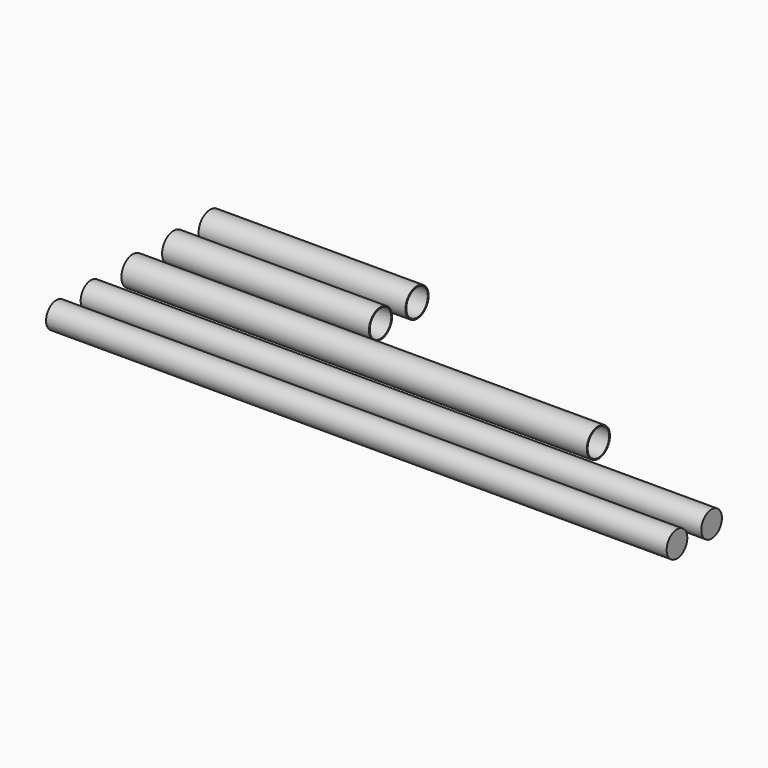
from build123d import *

# Parameters (mm, degrees)
F0_R        = 3.556
F0_R_2      = 3.302
F0_R_3      = 3.175
F1_DEPTH    = 152.4
F1_FACE_R   = 3.556
F1_FACE_R_2 = 3.302
F2_DEPTH    = 101.6
F3_DEPTH    = 101.6
F4_DEPTH    = 38.1


with BuildPart() as f1:
    # F0 (on Right) → F1 (new body)
    with BuildSketch(Plane.YZ):
        Circle(F0_R)
        Circle(F0_R_2, mode=Mode.SUBTRACT)
        with Locations((12.497241, 0)):
            Circle(F0_R)
        with Locations((12.497241, 0)):
            Circle(F0_R_2, mode=Mode.SUBTRACT)
        with Locations((-12.876584, 0)):
            Circle(F0_R_3)
        with Locations((-23.498186, 0)):
            Circle(F0_R_3)
        with Locations((23.708932, 0)):
            Circle(F0_R)
        with Locations((23.708932, 0)):
            Circle(F0_R_2, mode=Mode.SUBTRACT)
    extrude(amount=F1_DEPTH)

    # F1_face (on face) → F2 (cut)
    with BuildSketch(Plane(origin=(152.4, 23.708932, 0), x_dir=(0, 1, 0), z_dir=(1, 0, 0))):
        Circle(F1_FACE_R)
        Circle(F1_FACE_R_2, mode=Mode.SUBTRACT)
    extrude(amount=-F2_DEPTH, mode=Mode.SUBTRACT)

    # F1_face (on face) → F3 (cut)
    with BuildSketch(Plane(origin=(152.4, 23.708932, 0), x_dir=(0, 1, 0), z_dir=(1, 0, 0))):
        with Locations((-11.211691, 0)):
            Circle(F1_FACE_R)
        with Locations((-11.211691, 0)):
            Circle(F1_FACE_R_2, mode=Mode.SUBTRACT)
    extrude(amount=-F3_DEPTH, mode=Mode.SUBTRACT)

    # F1_face (on face) → F4 (cut)
    with BuildSketch(Plane(origin=(152.4, 23.708932, 0), x_dir=(0, 1, 0), z_dir=(1, 0, 0))):
        with Locations((-23.708932, 0)):
            Circle(F1_FACE_R)
        with Locations((-23.708932, 0)):
            Circle(F1_FACE_R_2, mode=Mode.SUBTRACT)
    extrude(amount=-F4_DEPTH, mode=Mode.SUBTRACT)


solid = f1.part
